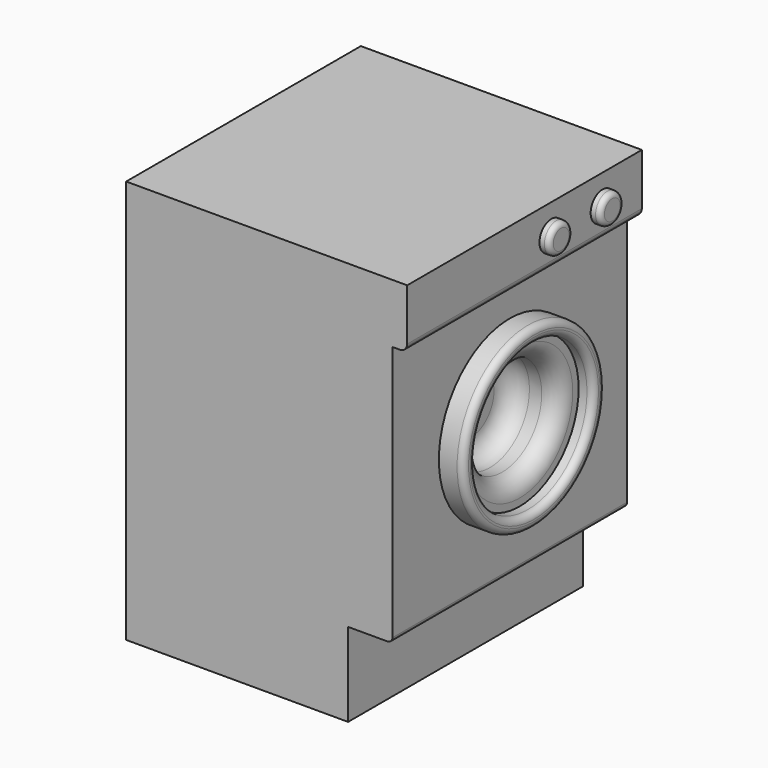
from build123d import *

# Parameters (mm, degrees)
SKETCH004_W             = 596
SKETCH004_H             = 541
PAD_DEPTH               = 820
SKETCH005_W             = 596
SKETCH005_H             = 170
POCKET_DEPTH            = 90
SKETCH006_R             = 180
PAD001_DEPTH            = 50
SKETCH007_W             = 596
SKETCH007_H             = 120
PAD002_DEPTH            = 30
SKETCH008_R             = 150
POCKET001_DEPTH         = 30
FILLET003_R             = 13
SKETCH009_R             = 100
POCKET002_DEPTH         = 100
FILLET004_R             = 35
SKETCH010_R             = 30
PAD003_DEPTH            = 20
FILLET005_R             = 10
FILLET006_R             = 10
FILLET007_R             = 15
FILLET008_R             = 40
FILLET009_R             = 10
BODY001_PLACEMENT_ANGLE = 90


with BuildPart() as part:
    # Sketch004 → Pad (new body)
    with BuildSketch(Plane.XY):
        with Locations((298, 270.5)):
            Rectangle(SKETCH004_W, SKETCH004_H)
    extrude(amount=PAD_DEPTH)

    # Sketch005 (on Face3 of Pad) → Pocket (cut)
    with BuildSketch(Plane(origin=(0, 541, 0), x_dir=(-1, 0, 0), z_dir=(0, 1, 0))):
        with Locations((-298, 85)):
            Rectangle(SKETCH005_W, SKETCH005_H)
    extrude(amount=-POCKET_DEPTH, mode=Mode.SUBTRACT)

    # Sketch006 (on Face8 of Pocket) → Pad001 (join)
    with BuildSketch(Plane(origin=(0, 541, 0), x_dir=(-1, 0, 0), z_dir=(0, 1, 0))):
        with Locations((-298, 450)):
            Circle(SKETCH006_R)
    extrude(amount=PAD001_DEPTH)

    # Sketch007 (on Face8 of Pad001) → Pad002 (join)
    with BuildSketch(Plane(origin=(0, 541, 0), x_dir=(-1, 0, 0), z_dir=(0, 1, 0))):
        with Locations((-298, 760)):
            Rectangle(SKETCH007_W, SKETCH007_H)
    extrude(amount=PAD002_DEPTH)

    # Sketch008 (on Face15 of Pad002) → Pocket001 (cut)
    with BuildSketch(Plane(origin=(0, 591, 0), x_dir=(-1, 0, 0), z_dir=(0, 1, 0))):
        with Locations((-298, 450)):
            Circle(SKETCH008_R)
    extrude(amount=-POCKET001_DEPTH, mode=Mode.SUBTRACT)

    # Fillet003
    fillet003_edges = [part.edges().sort_by_distance(p)[0] for p in [
        (478, 591, 450),
        (448, 591, 450),
    ]]
    fillet(fillet003_edges, radius=FILLET003_R)

    # Sketch009 (on Face19 of Fillet003) → Pocket002 (cut)
    with BuildSketch(Plane(origin=(0, 561, 0), x_dir=(-1, 0, 0), z_dir=(0, 1, 0))):
        with Locations((-298, 450)):
            Circle(SKETCH009_R)
    extrude(amount=-POCKET002_DEPTH, mode=Mode.SUBTRACT)

    # Fillet004
    fillet004_edges = [part.edges().sort_by_distance(p)[0] for p in [
        (398, 561, 450),
    ]]
    fillet(fillet004_edges, radius=FILLET004_R)

    # Sketch010 (on Face21 of Fillet004) → Pad003 (join)
    with BuildSketch(Plane(origin=(0, 571, 0), x_dir=(-1, 0, 0), z_dir=(0, 1, 0))):
        with Locations((-100, 760)):
            Circle(SKETCH010_R)
        with Locations((-230, 760)):
            Circle(SKETCH010_R)
    extrude(amount=PAD003_DEPTH)

    # Fillet005
    fillet005_edges = [part.edges().sort_by_distance(p)[0] for p in [
        (260, 591, 760),
    ]]
    fillet(fillet005_edges, radius=FILLET005_R)

    # Fillet006
    fillet006_edges = [part.edges().sort_by_distance(p)[0] for p in [
        (130, 591, 760),
    ]]
    fillet(fillet006_edges, radius=FILLET006_R)

    # Fillet007
    fillet007_edges = [part.edges().sort_by_distance(p)[0] for p in [
        (298, 571, 700),
    ]]
    fillet(fillet007_edges, radius=FILLET007_R)

    # Fillet008
    fillet008_edges = [part.edges().sort_by_distance(p)[0] for p in [
        (398, 461, 450),
    ]]
    fillet(fillet008_edges, radius=FILLET008_R)

    # Fillet009
    fillet009_edges = [part.edges().sort_by_distance(p)[0] for p in [
        (298, 541, 170),
    ]]
    fillet(fillet009_edges, radius=FILLET009_R)


with BuildPart() as part_1:
    # Body001 placement: moved
    add(part.part.moved(Location((0, 3896, 0))).rotate(Axis((0, 3896, 0), (0, 0, -1)), BODY001_PLACEMENT_ANGLE))


solid = part_1.part
